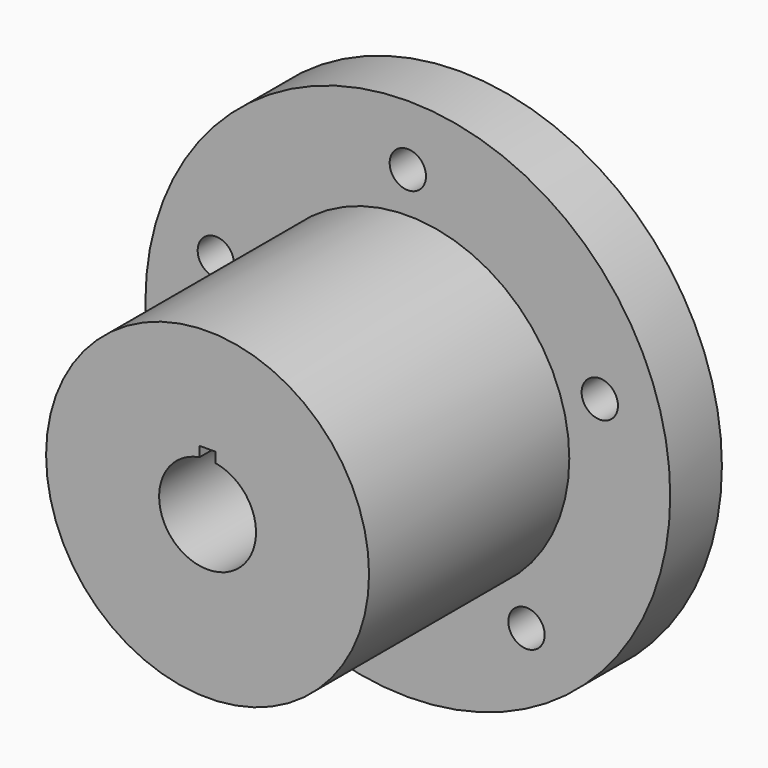
from build123d import *

# Parameters (mm, degrees)
F0_R     = 32.5
F1_DEPTH = 8
F2_R     = 20
F3_DEPTH = 31
F4_R     = 6
F5_DEPTH = 25
F7_DEPTH = 25.4
F8_R     = 2.25
F9_DEPTH = 8


with BuildPart() as f1:
    # F0 (on Front) → F1 (new body)
    with BuildSketch(Plane.XZ):
        Circle(F0_R)
    extrude(amount=F1_DEPTH)

    # F2 (on face) → F3 (join)
    with BuildSketch(Plane.XZ.offset(8)):
        Circle(F2_R)
    extrude(amount=F3_DEPTH)

    # F4 (on face) → F5 (cut)
    with BuildSketch(Plane.XZ.offset(39)):
        Circle(F4_R)
    extrude(amount=-F5_DEPTH, mode=Mode.SUBTRACT)

    # F6 (on face) → F7 (cut)
    with BuildSketch(Plane.XZ.offset(39)):
        Polygon((-1, 5.287178), (0, 5.287178), (1, 5.287178), (1, 7.165323), (-1, 7.165323), align=None)
    extrude(amount=-F7_DEPTH, mode=Mode.SUBTRACT)

    # F8 (on face) → F9 (cut, through all)
    with BuildSketch(Plane(origin=(0, 0, 0), x_dir=(-1, 0, 0), z_dir=(0, 1, 0))):
        with Locations((0, 25)):
            Circle(F8_R)
        with Locations((-23.776413, 7.725425)):
            Circle(F8_R)
        with Locations((-14.694631, -20.225425)):
            Circle(F8_R)
        with Locations((14.694631, -20.225425)):
            Circle(F8_R)
        with Locations((23.776413, 7.725425)):
            Circle(F8_R)
    extrude(amount=-F9_DEPTH, mode=Mode.SUBTRACT)


solid = f1.part
